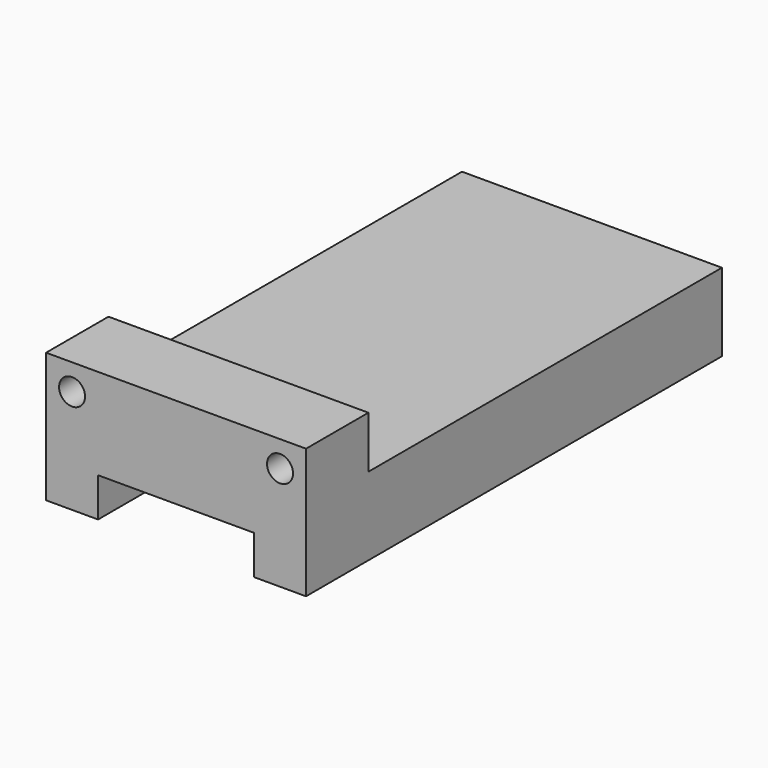
from build123d import *

# Parameters (mm, degrees)
F1_DEPTH = 127
F3_D     = 12.7
F3_DEPTH = 38.1
F5_D     = 12.7
F5_DEPTH = 38.1
F6_W     = 76.2
F6_H     = 19.05
F7_DEPTH = 254.001


with BuildPart() as f1:
    # F0 (on Right) → F1 (new body)
    with BuildSketch(Plane.YZ):
        Polygon((38.1, 0), (0, 0), (0, -63.5), (254, -63.5), (254, -25.4), (38.1, -25.4), align=None)
    extrude(amount=F1_DEPTH)

    # F3
    with Locations(Plane.XZ):
        with Locations((12.7, -12.7)):
            Hole(F3_D / 2, depth=F3_DEPTH)

    # F5
    with Locations(Plane.XZ):
        with Locations((114.3, -12.7)):
            Hole(F5_D / 2, depth=F5_DEPTH)

    # F6 (on face) → F7 (cut, through all)
    with BuildSketch(Plane(origin=(0, 254, 0), x_dir=(-1, 0, 0), z_dir=(0, 1, 0))):
        with Locations((-63.5, -53.975)):
            Rectangle(F6_W, F6_H)
    extrude(amount=-F7_DEPTH, mode=Mode.SUBTRACT)


solid = f1.part
